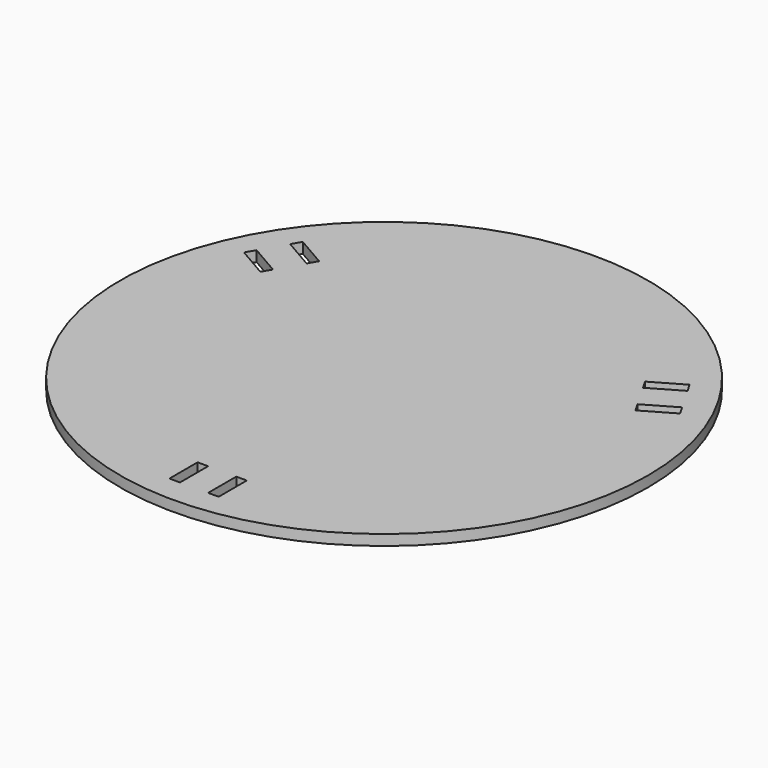
from build123d import *

# Parameters (mm, degrees)
F0_R     = 150
F1_DEPTH = 6
F2_W     = 6
F2_H     = 20
F3_DEPTH = 6.001


with BuildPart() as f1:
    # F0 (on Top) → F1 (new body)
    with BuildSketch(Plane.XY):
        Circle(F0_R)
    extrude(amount=F1_DEPTH)

    # F2 (on face) → F3 (cut, through all)
    with BuildSketch(Plane.XY.offset(6)):
        with Locations((-11, -125)):
            Rectangle(F2_W, F2_H)
        with Locations((11, -125)):
            Rectangle(F2_W, F2_H)
        Polygon((103.592921, 50.571797), (106.592921, 45.375644), (123.91343, 55.375644), (120.91343, 60.571797), align=None)
        Polygon((92.592921, 69.624356), (95.592921, 64.428203), (112.91343, 74.428203), (109.91343, 79.624356), align=None)
        Polygon((-95.592921, 64.428203), (-92.592921, 69.624356), (-109.91343, 79.624356), (-112.91343, 74.428203), align=None)
        Polygon((-106.592921, 45.375644), (-103.592921, 50.571797), (-120.91343, 60.571797), (-123.91343, 55.375644), align=None)
    extrude(amount=-F3_DEPTH, mode=Mode.SUBTRACT)


solid = f1.part
